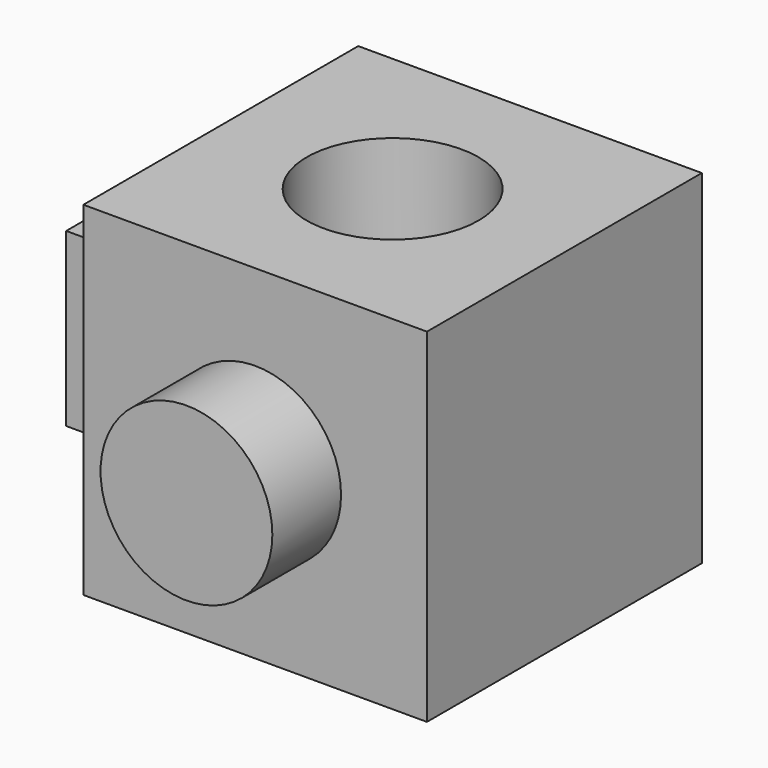
from build123d import *

# Parameters (mm, degrees)
F0_W     = 50.8
F0_H     = 50.8
F1_DEPTH = 50.8
F2_R     = 12.7
F3_DEPTH = 50.8
F4_R     = 12.7
F5_DEPTH = 12.7
F6_W     = 25.4
F6_H     = 25.4
F7_DEPTH = 12.7


with BuildPart() as f1:
    # F0 (on Front) → F1 (new body)
    with BuildSketch(Plane.XZ):
        Rectangle(F0_W, F0_H)
    extrude(amount=F1_DEPTH)

    # F2 (on face) → F3 (cut)
    with BuildSketch(Plane.XY.offset(25.4)):
        with Locations((0, -25.4)):
            Circle(F2_R)
    extrude(amount=-F3_DEPTH, mode=Mode.SUBTRACT)

    # F4 (on face) → F5 (join)
    with BuildSketch(Plane.XZ.offset(50.8)):
        Circle(F4_R)
    extrude(amount=F5_DEPTH)

    # F6 (on face) → F7 (join)
    with BuildSketch(Plane(origin=(-25.4, 0, 0), x_dir=(0, -1, 0), z_dir=(-1, 0, 0))):
        with Locations((25.4, 0)):
            Rectangle(F6_W, F6_H)
    extrude(amount=F7_DEPTH)


solid = f1.part
